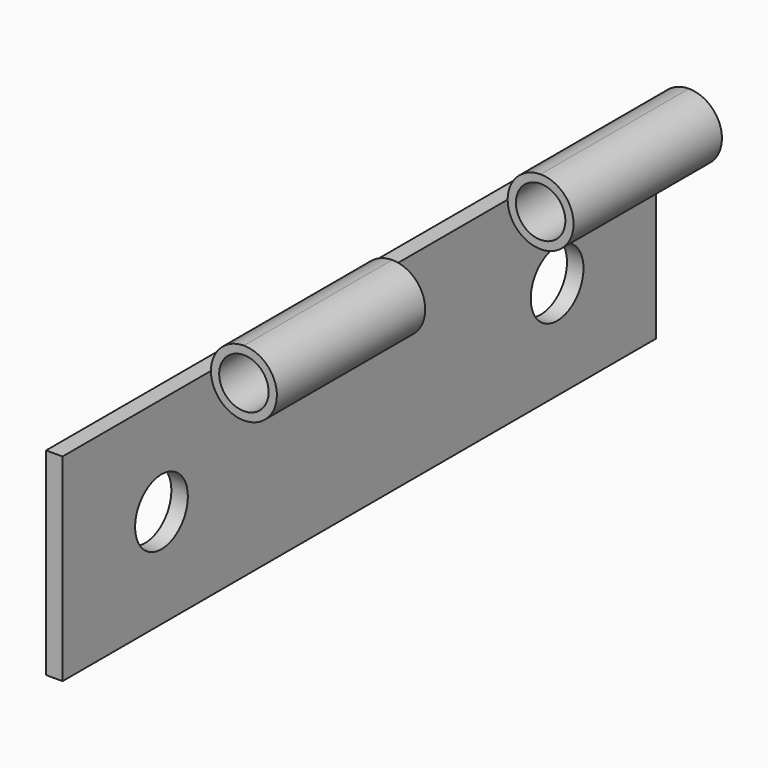
from build123d import *

# Parameters (mm, degrees)
SKETCH007_W            = 45
SKETCH007_H            = 12
SKETCH007_R            = 2
PAD007_DEPTH           = 1
SKETCH008_R            = 2
SKETCH008_R_2          = 1.5
PAD008_DEPTH           = 11.25
LINEARPATTERN003_COUNT = 2
LINEARPATTERN003_PITCH = 22.5


with BuildPart() as part:
    # Sketch007 → Pad007 (new body)
    with BuildSketch(Plane.YZ):
        with Locations((172.5, -6)):
            Rectangle(SKETCH007_W, SKETCH007_H)
        with Locations((157.5, -6)):
            Circle(SKETCH007_R, mode=Mode.SUBTRACT)
        with Locations((187.5, -6)):
            Circle(SKETCH007_R, mode=Mode.SUBTRACT)
    extrude(amount=PAD007_DEPTH)

    # Sketch008 (on Face2 of Pad007) → Pad008 (join)
    with BuildSketch(Plane.ZX.offset(195)):
        with Locations((0, 3)):
            Circle(SKETCH008_R)
        with Locations((0, 3)):
            Circle(SKETCH008_R_2, mode=Mode.SUBTRACT)
    pad008 = extrude(amount=-PAD008_DEPTH)

    # LinearPattern003: Pad008 ×2
    with Locations(*[(0, -i * LINEARPATTERN003_PITCH, 0) for i in range(1, LINEARPATTERN003_COUNT)]):
        add(pad008)


solid = part.part
